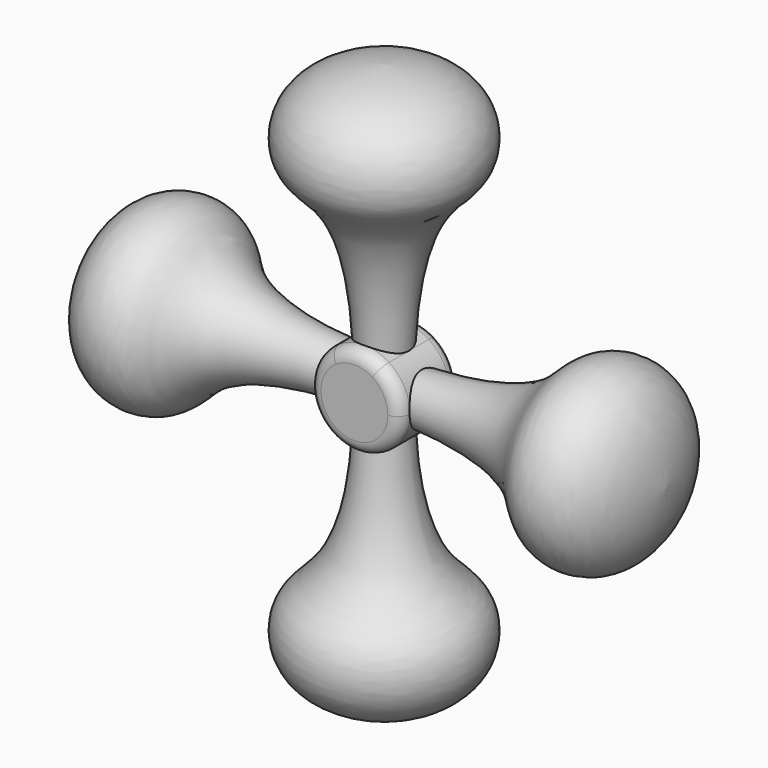
from build123d import *

# Parameters (mm, degrees)
F2_COUNT = 4
F4_DEPTH = 3
F5_R     = 1


with BuildPart() as f1:
    # F0 (on Front) → F1 (revolve)
    with BuildSketch(Plane.XZ):
        with BuildLine():
            Line((0, 21.7575227618), (0, 22.7575227618))
            add(Edge.make_bspline(
                [(0, 22.7575227618), (-7.0534972474, 22.375240922), (-8.8550858492, 13.0993564111), (-2.4842833343, 13.8145914782), (-2, 3)],
                knots=[0, 0, 0, 0, 0.4552746662, 1, 1, 1, 1], degree=3))
            Line((-2, 3), (0, 3))
            Line((0, 3), (0, 4))
            Line((0, 4), (-1, 4))
            add(Edge.make_bspline(
                [(-1, 4), (-2.8221982184, 15.5987236562), (-5.9873309743, 13.0427703905), (-7.0534972474, 20.9416896105), (0, 21.7575227618)],
                knots=[0, 0, 0, 0, 0.5577633653, 1, 1, 1, 1], degree=3))
        make_face()
        with BuildLine():
            Line((0, 4), (0, 21.7575227618))
            add(Edge.make_bspline(
                [(-1, 4), (-2.8221982184, 15.5987236562), (-5.9873309743, 13.0427703905), (-7.0534972474, 20.9416896105), (0, 21.7575227618)],
                knots=[0, 0, 0, 0, 0.5577633653, 1, 1, 1, 1], degree=3))
            Line((-1, 4), (0, 4))
        make_face()
    revolve(axis=Axis((0, 0, 12.8787613809), (0, 0, 1)))


with BuildPart() as f2_1:
    # F2: instance of F1
    add(f1.part.rotate(Axis((0, 0, 0), (0, -1, 0)), 1 * 360 / F2_COUNT))


with BuildPart() as f2_2:
    # F2: instance of F1
    add(f1.part.rotate(Axis((0, 0, 0), (0, -1, 0)), 2 * 360 / F2_COUNT))


with BuildPart() as f2_3:
    # F2: instance of F1
    add(f1.part.rotate(Axis((0, 0, 0), (0, -1, 0)), 3 * 360 / F2_COUNT))


with BuildPart() as f4:
    # F3 (on Front) → F4 (new body, symmetric)
    with BuildSketch(Plane.XZ):
        with BuildLine():
            ThreePointArc((3.7003795606, -0.1133276237), (3.2475812548, 1.6603760961), (2, 3))
            Line((2, 3), (-2, 3))
            ThreePointArc((-2, 3), (-1.7737037198, -3.3609088785), (3.7003795606, -0.1133276237))
        make_face()
        with BuildLine():
            Line((-2, 3), (2, 3))
            ThreePointArc((2, 3), (0, 3.5870519369), (-2, 3))
        make_face()
    extrude(amount=F4_DEPTH, both=True)

    # F5
    f5_edges = [f4.edges().sort_by_distance(p)[0] for p in [
        (-2, -3, -3.226655),
        (-2, 3, -3.226655),
    ]]
    fillet(f5_edges, radius=F5_R)


solid = Compound([f1.part, f2_1.part, f2_2.part, f2_3.part, f4.part])
